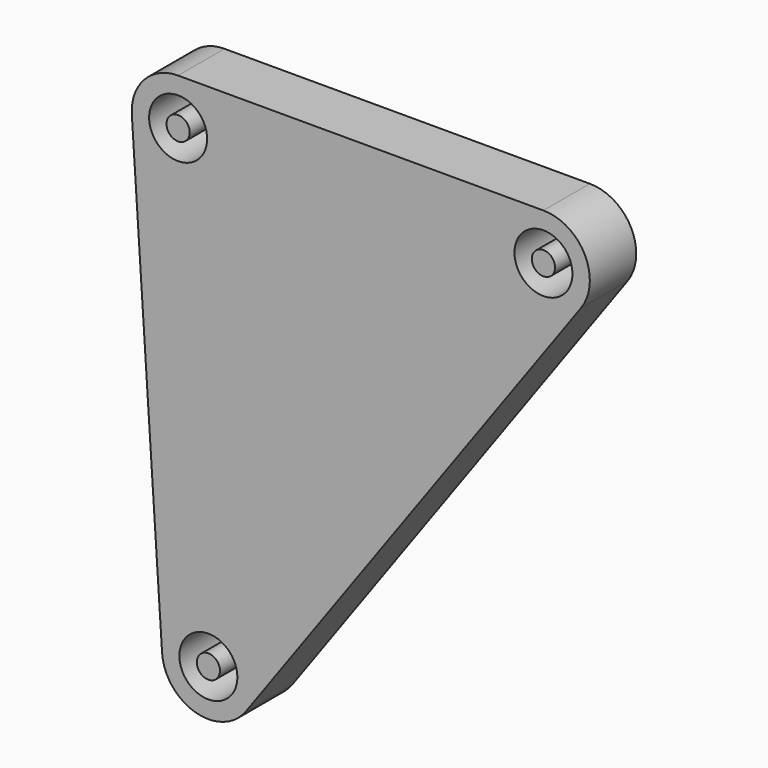
from build123d import *

# Parameters (mm, degrees)
F0_R     = 2.5
F0_R_2   = 1
F1_DEPTH = 5


with BuildPart() as f1:
    # F0 (on Front) → F1 (new body)
    with BuildSketch(Plane.XZ):
        with BuildLine():
            Line((25.79, 6.74), (-5.71, 6.74))
            ThreePointArc((-5.71, 6.74), (-8.629035, 5.474819), (-9.701516, 2.479619))
            Line((-9.701516, 2.479619), (-7.091516, -37.530381))
            ThreePointArc((-7.091516, -37.530381), (-4.20589, -41.114087), (0.142952, -39.611637))
            Line((0.142952, -39.611637), (29.032952, 0.398363))
            ThreePointArc((29.032952, 0.398363), (29.351358, 4.561188), (25.79, 6.74))
        make_face()
        with Locations((-3.1, -37.27)):
            Circle(F0_R, mode=Mode.SUBTRACT)
        with Locations((-5.71, 2.74)):
            Circle(F0_R, mode=Mode.SUBTRACT)
        with Locations((25.79, 2.74)):
            Circle(F0_R, mode=Mode.SUBTRACT)
        with Locations((-5.71, 2.74)):
            Circle(F0_R_2)
        with Locations((25.79, 2.74)):
            Circle(F0_R_2)
        with Locations((-3.1, -37.27)):
            Circle(F0_R_2)
    extrude(amount=F1_DEPTH)


solid = f1.part
